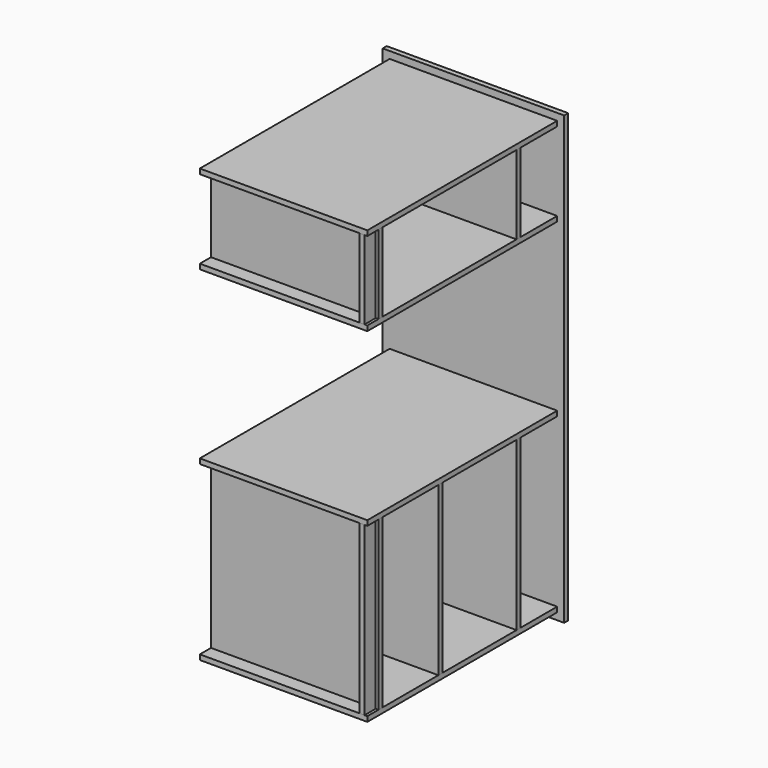
from build123d import *

# Parameters (mm, degrees)
F0_W      = 600
F0_H      = 850
F1_DEPTH  = 18
F2_W      = 650
F2_H      = 1600
F3_DEPTH  = 18
F4_W      = 600
F4_H      = 18
F5_DEPTH  = 850
F6_W      = 600
F6_H      = 18
F7_DEPTH  = 600
F8_W      = 600
F8_H      = 18
F9_DEPTH  = 282
F10_W     = 18
F10_H     = 282
F10_H_2   = 600
F11_DEPTH = 50


with BuildPart() as f1:
    # F0 (on Top) → F1 (new body)
    with BuildSketch(Plane.XY):
        with Locations((-13.843969, 220.814227)):
            Rectangle(F0_W, F0_H)
    extrude(amount=F1_DEPTH)


with BuildPart() as f3:
    # F2 (on face) → F3 (new body)
    with BuildSketch(Plane(origin=(0, 645.814227, 0), x_dir=(-1, 0, 0), z_dir=(0, 1, 0))):
        with Locations((13.843969, -457)):
            Rectangle(F2_W, F2_H)
    extrude(amount=F3_DEPTH)


with BuildPart() as f5:
    # F4 (on face) → F5 (new body, through all)
    with BuildSketch(Plane.XZ.offset(-645.814227)):
        with Locations((-13.843969, -605)):
            Rectangle(F4_W, F4_H)
        with Locations((-13.843969, -1223)):
            Rectangle(F4_W, F4_H)
        with Locations((-13.843969, 309)):
            Rectangle(F4_W, F4_H)
    extrude(amount=F5_DEPTH)


with BuildPart() as f7:
    # F6 (on face) → F7 (new body, through all)
    with BuildSketch(Plane.XY.offset(-1214)):
        with Locations((-13.843969, -145.185773)):
            Rectangle(F6_W, F6_H)
        with Locations((-13.843969, 472.814227)):
            Rectangle(F6_W, F6_H)
        with Locations((-13.843969, 122.814227)):
            Rectangle(F6_W, F6_H)
    extrude(amount=F7_DEPTH)


with BuildPart() as f9:
    # F8 (on face) → F9 (new body, through all)
    with BuildSketch(Plane.XY.offset(18)):
        with Locations((-13.843969, 472.814227)):
            Rectangle(F8_W, F8_H)
        with Locations((-13.843969, -145.185773)):
            Rectangle(F8_W, F8_H)
    extrude(amount=F9_DEPTH)


with BuildPart() as f11:
    # F10 (on face) → F11 (new body, through all)
    with BuildSketch(Plane.XZ.offset(154.185773)):
        with Locations((267.156031, 159)):
            Rectangle(F10_W, F10_H)
        with Locations((267.156031, -914)):
            Rectangle(F10_W, F10_H_2)
    extrude(amount=F11_DEPTH)


solid = Compound([f1.part, f3.part, f5.part, f7.part, f9.part, f11.part])
